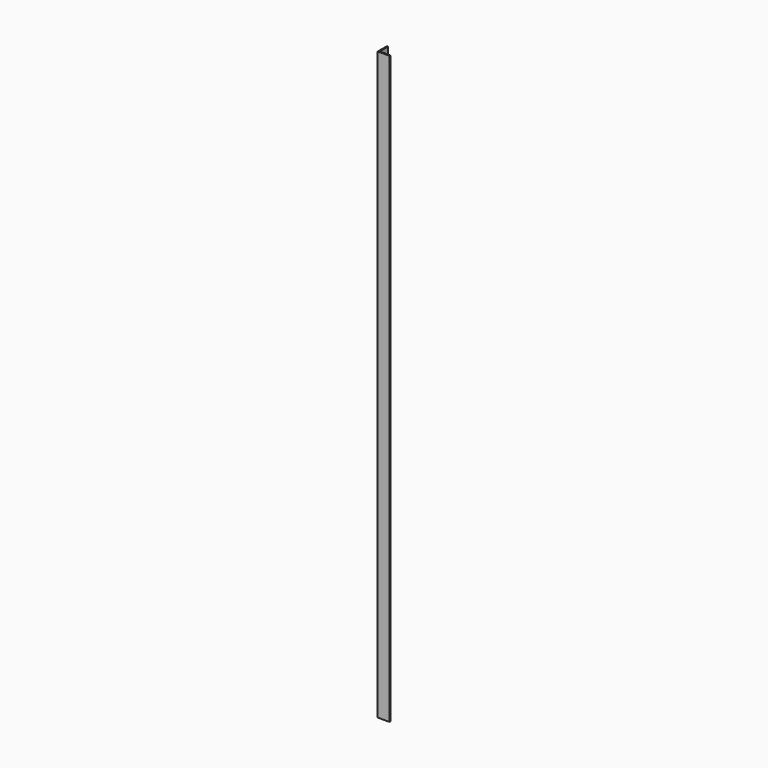
from build123d import *

# Parameters (mm, degrees)
PAD_DEPTH = 500


with BuildPart() as part:
    # Sketch → Pad (new body)
    with BuildSketch(Plane.XY):
        Polygon((0, 0), (0, 9), (-1, 9), (-1, -1), (9, -1), (9, 0), align=None)
    extrude(amount=-PAD_DEPTH)


solid = part.part
